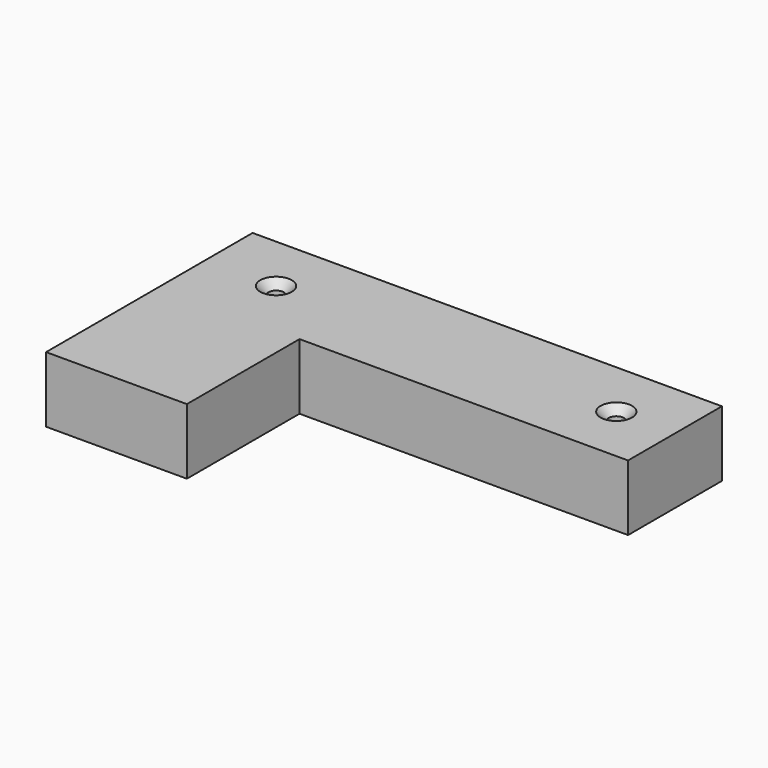
from build123d import *

# Parameters (mm, degrees)
F1_DEPTH       = 14
F3_D           = 3.3
F3_CSINK_D     = 6.72
F3_CSINK_ANGLE = 90


with BuildPart() as f1:
    # F0 (on Top) → F1 (new body)
    with BuildSketch(Plane.XY):
        Polygon((45.5477632582, 19.6576939523), (-54.4522367418, 19.6576939523), (-54.4522367418, -35.3423060477), (-24.4522367418, -35.3423060477), (-24.4522367418, -5.3423060477), (45.5477632582, -5.3423060477), align=None)
    extrude(amount=F1_DEPTH)

    # F3 (through all)
    with Locations(Plane.XY.offset(14)):
        with Locations((-39.4522367418, 7.1576939523), (33.0477632582, 7.1576939523)):
            CounterSinkHole(F3_D / 2, F3_CSINK_D / 2, counter_sink_angle=F3_CSINK_ANGLE)


solid = f1.part
